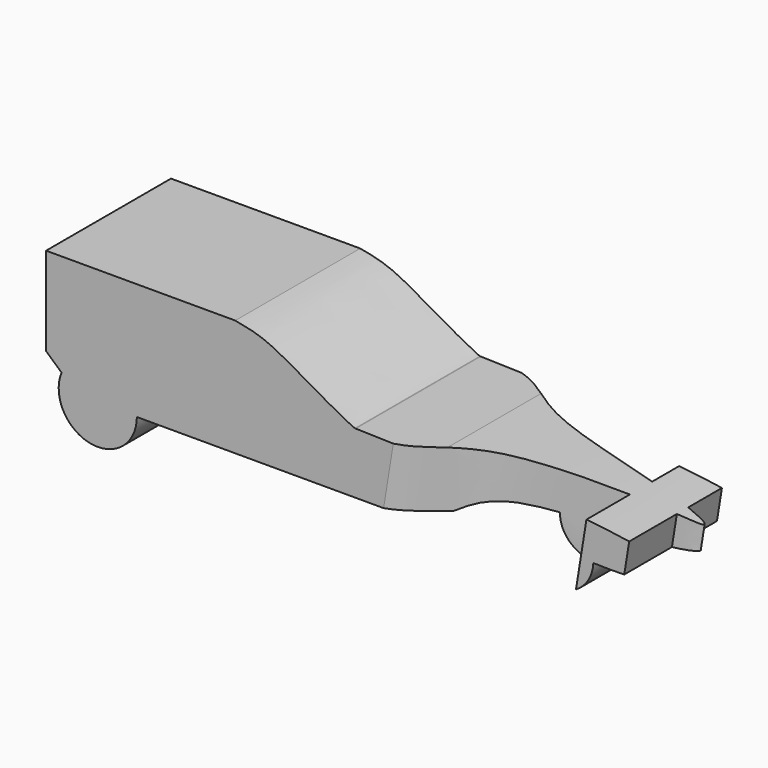
from build123d import *

# Parameters (mm, degrees)
F1_DEPTH = 41.91
F2_R     = 9.525
F3_DEPTH = 50.8
F6_DEPTH = 50.8
F7_DEPTH = 25.4
F8_DEPTH = 50.8


with BuildPart() as f1:
    # F0 (on Front) → F1 (new body)
    with BuildSketch(Plane.XZ):
        Polygon((0, 69.342), (0, 0), (304.8, 0), (304.8, 20.32), align=None)
    extrude(amount=F1_DEPTH)

    # F2 (on face) → F3 (cut)
    with BuildSketch(Plane(origin=(0, 0, 0), x_dir=(0, -1, 0), z_dir=(-1, 0, 0))):
        with Locations((20.955, 33.655)):
            Circle(F2_R)
    extrude(amount=-F3_DEPTH, mode=Mode.SUBTRACT)

    # F5 (on face) → F6 (cut)
    with BuildSketch(Plane(origin=(10.8712933297, 0, 67.5935336561), x_dir=(0.9873119504, 0, -0.158792672), z_dir=(0.158792672, 0, 0.9873119504))):
        with BuildLine():
            Line((297.7060153729, 0), (88.275462389, 0))
            add(Edge.make_bspline(
                [(88.275462389, 0), (95.5999228, -2.1800058007), (99.5207464661, -9.5929020901), (126.7288728662, -14.7460221799), (136.4160478115, -16.554459949)],
                knots=[0.3090130021, 0.3090130021, 0.3090130021, 0.3090130021, 0.3830582475, 0.4371225307, 0.4371225307, 0.4371225307, 0.4371225307], degree=3))
            Line((136.4160478115, -16.554459949), (136.4160478115, -7.4925953522))
            Line((136.4160478115, -7.4925953522), (147.9761302471, -7.4925953522))
            Line((147.9761302471, -7.4925953522), (147.9761302471, -18.8014623575))
            add(Edge.make_bspline(
                [(147.9761302471, -18.8014623575), (151.765692848, -19.6252848989), (156.5476605795, -21.0522072501), (151.7474077217, -22.0744248335), (147.9761302471, -22.6044190484)],
                knots=[0.4617527928, 0.4617527928, 0.4617527928, 0.4617527928, 0.4918016432, 0.521656289, 0.521656289, 0.521656289, 0.521656289], degree=3))
            Line((147.9761302471, -22.6044190484), (147.9761302471, -38.6058390141))
            Line((147.9761302471, -38.6058390141), (136.4160478115, -38.6058390141))
            Line((136.4160478115, -38.6058390141), (136.4160478115, -24.0227914718))
            add(Edge.make_bspline(
                [(136.4160478115, -24.0227914718), (126.7667690796, -25.1848244656), (98.8217367842, -28.9723139596), (94.9311976764, -39.2831934047), (87.3253196478, -41.91)],
                knots=[0.5462357358, 0.5462357358, 0.5462357358, 0.5462357358, 0.5999486276, 0.6773873412, 0.6773873412, 0.6773873412, 0.6773873412], degree=3))
            Line((87.3253196478, -41.91), (297.7060153729, -41.91))
            Line((297.7060153729, -41.91), (297.7060153729, 0))
        make_face()
    extrude(amount=-F6_DEPTH, mode=Mode.SUBTRACT)

    # F7 (cut): a face of the model
    f7_faces = [f1.faces().sort_by_distance(p)[0] for p in [
        (304.8, -20.955, 10.16),
    ]]
    extrude(f7_faces, amount=-F7_DEPTH, mode=Mode.SUBTRACT)

    # F4 (on face) → F8 (cut)
    with BuildSketch(Plane.XZ.offset(41.91)):
        with BuildLine():
            add(Edge.make_bspline(
                [(82.9068287366, 29.7811741159), (82.978012892, 29.7792988327), (83.0492108841, 29.7774205729), (83.1204225627, 29.7755393687)],
                knots=[0.8772923508, 0.8772923508, 0.8772923508, 0.8772923508, 0.8786237548, 0.8786237548, 0.8786237548, 0.8786237548], degree=3))
            add(Edge.make_bspline(
                [(83.1204225627, 29.7755393687), (89.6123714293, 29.604041076), (96.2180677576, 29.4080726163), (102.8237640858, 29.2121041566)],
                knots=[0.8786237548, 0.8786237548, 0.8786237548, 0.8786237548, 1, 1, 1, 1], degree=3))
            add(Edge.make_bspline(
                [(144.2358160863, 16.5351557576), (150.333075778, 16.3619495162), (161.796880097, 16.5137106637), (172.8522537317, 24.6293849185), (132.9251777627, 27.2422440576), (102.8237640858, 29.2121041566)],
                knots=[0.3737078061, 0.3737078061, 0.3737078061, 0.3737078061, 0.4928247183, 0.6176355871, 1, 1, 1, 1], degree=3))
            ThreePointArc((144.2358160863, 16.5351557576), (134.3981869594, 7.4882265803), (125.3624067119, 17.336096893))
            add(Edge.make_bspline(
                [(102.8237640858, 13.4033197537), (105.6450909721, 15.0534815148), (109.8755049868, 17.5278021879), (121.2201167816, 17.4703605412), (125.3624067119, 17.336096893)],
                knots=[0, 0, 0, 0, 0.1684749146, 0.2526182426, 0.2526182426, 0.2526182426, 0.2526182426], degree=3))
            Line((102.8237640858, 13.4033197537), (24.3635688924, 13.4033197537))
            ThreePointArc((24.3635688924, 13.4033197537), (11.8780155726, 3.1045340371), (4.1420046909, 17.3210091479))
            Line((4.1420046909, 17.3210091479), (0, 21.0521575063))
            Line((0, 21.0521575063), (0, 0))
            Line((0, 0), (304.8, 0))
            Line((304.8, 0), (304.8, 20.32))
            Line((304.8, 20.32), (0, 69.342))
            Line((0, 69.342), (0, 44.7794720531))
            Line((0, 44.7794720531), (50.783239305, 44.7794720531))
            add(Edge.make_bspline(
                [(50.783239305, 44.7794720531), (53.3440652749, 44.3032341581), (59.3645791852, 43.1907495711), (70.6534395002, 36.1178415086), (81.9736255025, 30.0287381478), (82.9068287366, 29.7811741159)],
                knots=[0, 0, 0, 0, 0.2669161859, 0.6277797899, 0.9568980976, 0.9568980976, 0.9568980976, 0.9568980976], degree=3))
        make_face()
    extrude(amount=-F8_DEPTH, mode=Mode.SUBTRACT)


solid = f1.part
